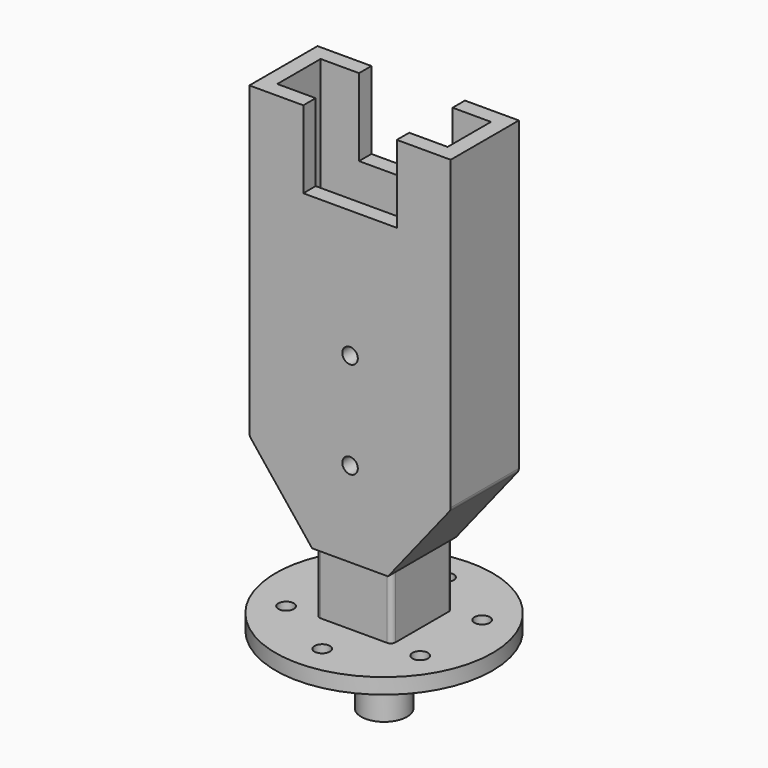
from build123d import *

# Parameters (mm, degrees)
F1_DEPTH      = 47.752
F2_W          = 39.37
F2_H          = 39.37
F3_DEPTH      = 8.382
F4_R          = 88.9
F4_R_2        = 6.35
F5_DEPTH      = 12.7
F7_DEPTH      = 50.8
F8_R          = 5.334
F9_DEPTH      = 88.901
F9_DEPTH_BACK = 127
F10_W         = 36.83
F10_H         = 36.83
F11_DEPTH     = 50.8
F13_DEPTH     = 34.925
F14_W         = 139.7
F14_H         = 44.45
F15_DEPTH     = 252.932645439
F17_DEPTH     = 22.225
F18_R         = 5.08
F19_R         = 6.35
F20_DEPTH     = 123.826


with BuildPart() as f1:
    # F0 (on Top) → F1 (new body)
    with BuildSketch(Plane.XY):
        with BuildLine():
            Line((-4.7625, 15.4178), (-4.7625, 18.1826348407))
            ThreePointArc((-4.7625, 18.1826348407), (0, -18.796), (4.7625, 18.1826348407))
            Line((4.7625, 18.1826348407), (4.7625, 15.4178))
            Line((4.7625, 15.4178), (-4.7625, 15.4178))
        make_face()
    extrude(amount=F1_DEPTH)

    # F2 (on face) → F3 (join)
    with BuildSketch(Plane.XY.offset(47.752)):
        Rectangle(F2_W, F2_H)
    extrude(amount=F3_DEPTH)

    # F4 (on face) → F5 (join)
    with BuildSketch(Plane.XY.offset(56.134)):
        Circle(F4_R)
        with Locations((-54.9926131403, -31.75)):
            Circle(F4_R_2, mode=Mode.SUBTRACT)
        with Locations((0, -63.5)):
            Circle(F4_R_2, mode=Mode.SUBTRACT)
        with Locations((54.9926131403, -31.75)):
            Circle(F4_R_2, mode=Mode.SUBTRACT)
        with Locations((-54.9926131403, 31.75)):
            Circle(F4_R_2, mode=Mode.SUBTRACT)
        with Locations((54.9926131403, 31.75)):
            Circle(F4_R_2, mode=Mode.SUBTRACT)
        with Locations((0, 63.5)):
            Circle(F4_R_2, mode=Mode.SUBTRACT)
    extrude(amount=F5_DEPTH)

    # F6 (on face) → F7 (join)
    with BuildSketch(Plane.XY.offset(68.834)):
        with BuildLine():
            Line((27.305, 31.115), (-27.305, 31.115))
            ThreePointArc((-27.305, 31.115), (-29.9990768363, 29.9990768363), (-31.115, 27.305))
            Line((-31.115, 27.305), (-31.115, -27.305))
            ThreePointArc((-31.115, -27.305), (-29.9990768363, -29.9990768363), (-27.305, -31.115))
            Line((-27.305, -31.115), (27.305, -31.115))
            ThreePointArc((27.305, -31.115), (29.9990768363, -29.9990768363), (31.115, -27.305))
            Line((31.115, -27.305), (31.115, 27.305))
            ThreePointArc((31.115, 27.305), (29.9990768363, 29.9990768363), (27.305, 31.115))
        make_face()
    extrude(amount=F7_DEPTH)

    # F8 (on Right) → F9 (cut, two sides)
    with BuildSketch(Plane.YZ) as f9_sk:
        with Locations((0, 31.75)):
            Circle(F8_R)
    extrude(amount=F9_DEPTH, mode=Mode.SUBTRACT)
    extrude(f9_sk.sketch, amount=-F9_DEPTH_BACK, mode=Mode.SUBTRACT)

    # F10 (on face) → F11 (cut, through all)
    with BuildSketch(Plane.XY.offset(119.634)):
        Rectangle(F10_W, F10_H)
    extrude(amount=-F11_DEPTH, mode=Mode.SUBTRACT)

    # F12 (on Front) → F13 (join, symmetric)
    with BuildSketch(Plane.XZ):
        Polygon((0, 119.634), (31.115, 119.634), (82.55, 184.201354561), (82.55, 437.134), (38.354, 437.134), (38.354, 373.634), (0, 373.634), (-38.354, 373.634), (-38.354, 437.134), (-82.55, 437.134), (-82.55, 184.201354561), (-31.115, 119.634), align=None)
    extrude(amount=F13_DEPTH, both=True)

    # F14 (on face) → F15 (cut, through all)
    with BuildSketch(Plane.XY.offset(437.134)):
        Rectangle(F14_W, F14_H)
    extrude(amount=-F15_DEPTH, mode=Mode.SUBTRACT)

    # F16 (on Front) → F17 (cut, symmetric)
    with BuildSketch(Plane.XZ):
        Polygon((31.115, 140.0167160494), (66.3129246679, 184.201354561), (-66.3129246679, 184.201354561), (-31.115, 140.0167160494), (-18.415, 140.0167160494), (-18.415, 68.834), (18.415, 68.834), (18.415, 140.0167160494), align=None)
    extrude(amount=F17_DEPTH, both=True, mode=Mode.SUBTRACT)

    # F18
    f18_edges = [f1.edges().sort_by_distance(p)[0] for p in [
        (82.55, 0, 184.201355),
        (-82.55, 0, 184.201355),
    ]]
    fillet(f18_edges, radius=F18_R)

    # F19 (on face) → F20 (cut, through all)
    with BuildSketch(Plane.XZ.offset(34.925)):
        with Locations((0, 189.484)):
            Circle(F19_R)
        with Locations((0, 268.859)):
            Circle(F19_R)
    extrude(amount=-F20_DEPTH, mode=Mode.SUBTRACT)


solid = f1.part
